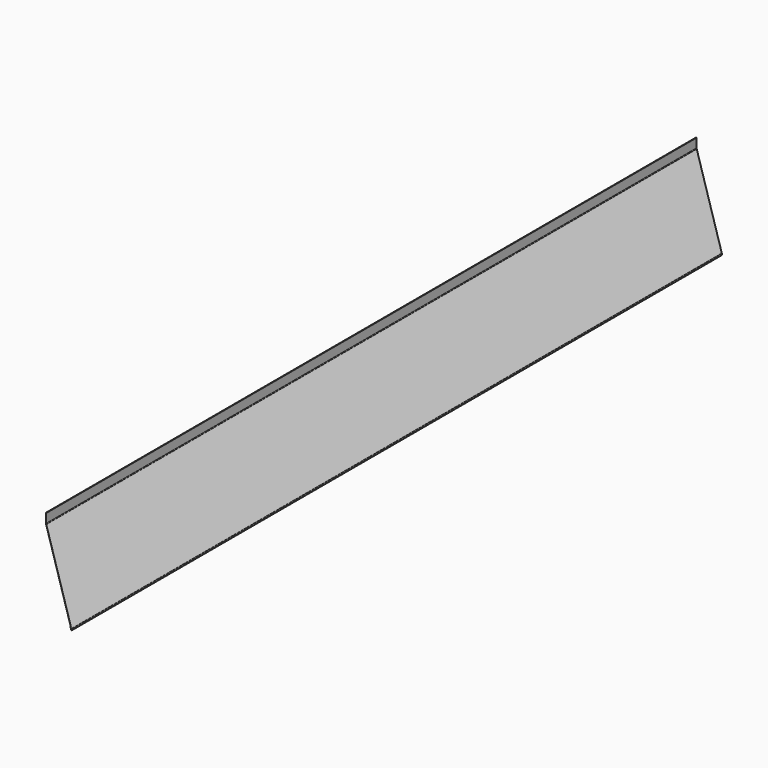
from build123d import *

# Parameters (mm, degrees)
F1_DEPTH = 1850
F3_DEPTH = 25
F5_DEPTH = 25


with BuildPart() as f1:
    # F0 (on Front) → F1 (new body)
    with BuildSketch(Plane.XZ):
        with BuildLine():
            Line((0, 1), (0, 19))
            Line((0, 19), (-1, 19))
            Line((-1, 19), (-1, 1))
            ThreePointArc((-1, 1), (-0.4142135624, -0.4142135624), (1, -1))
            Line((1, -1), (248, -1))
            Line((248, -1), (248, -2))
            Line((248, -2), (239, -2))
            Line((239, -2), (239, -3))
            Line((239, -3), (248, -3))
            ThreePointArc((248, -3), (248.7071067812, -2.7071067812), (249, -2))
            Line((249, -2), (249, -1))
            ThreePointArc((249, -1), (248.7071067812, -0.2928932188), (248, 0))
            Line((248, 0), (1, 0))
            ThreePointArc((1, 0), (0.2928932188, 0.2928932188), (0, 1))
        make_face()
    extrude(amount=-F1_DEPTH)

    # F2 (on face) → F3 (cut, symmetric)
    with BuildSketch(Plane.XY):
        Polygon((249, -77.7916684747), (249, 0), (-151, 400), (-151, 0), (-141.1382748954, -77.7916684747), align=None)
    extrude(amount=F3_DEPTH, both=True, mode=Mode.SUBTRACT)

    # F4 (on face) → F5 (cut, symmetric)
    with BuildSketch(Plane.XY):
        Polygon((0, 1893.902085615), (0, 1850), (456.097914385, 1393.902085615), (456.097914385, 1893.902085615), align=None)
    extrude(amount=F5_DEPTH, both=True, mode=Mode.SUBTRACT)


solid = f1.part
